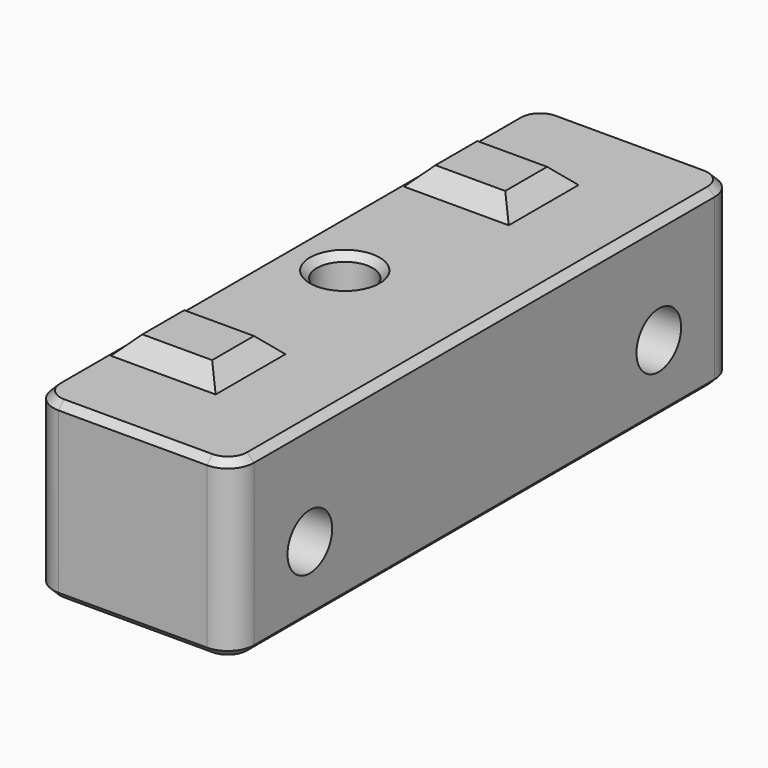
from build123d import *

# Parameters (mm, degrees)
PAD_DEPTH            = 10
SKETCH003_R          = 1.6
POCKET_DEPTH         = 0.001
POCKET_DEPTH_BACK    = 10.001
SKETCH006_W          = 6
SKETCH006_H          = 5
PAD001_DEPTH         = 1
PAD001_TAPER         = 45
SKETCH_R             = 1.6
POCKET004_DEPTH      = 11.501
POCKET004_DEPTH_BACK = 0.001
FILLET_R             = 1.5
CHAMFER_SIZE         = 0.4


with BuildPart() as part:
    # Sketch001 → Pad (new body)
    with BuildSketch(Plane.XY):
        Polygon((-3.5, 18), (-3.5, 0), (-3.5, -18), (8, -18), (8, 18), align=None)
    extrude(amount=PAD_DEPTH)

    # Sketch003 → Pocket (cut, two sides)
    with BuildSketch(Plane.XY) as pocket_sk:
        Circle(SKETCH003_R)
    extrude(amount=-POCKET_DEPTH, mode=Mode.SUBTRACT)
    extrude(pocket_sk.sketch, amount=POCKET_DEPTH_BACK, mode=Mode.SUBTRACT)

    # Sketch006 (on Face5 of Pocket) → Pad001 (join)
    with BuildSketch(Plane.XY.offset(10)):
        with Locations((0, 10.5)):
            Rectangle(SKETCH006_W, SKETCH006_H)
        with Locations((0, -10.5)):
            Rectangle(SKETCH006_W, SKETCH006_H)
    extrude(amount=PAD001_DEPTH, taper=PAD001_TAPER)

    # Sketch (on Face2 of Pad001) → Pocket004 (cut, two sides)
    with BuildSketch(Plane(origin=(-3.5, 0, 0), x_dir=(0, -1, 0), z_dir=(-1, 0, 0))) as pocket004_sk:
        with Locations((-12.5, 4)):
            Circle(SKETCH_R)
        with Locations((12.5, 4)):
            Circle(SKETCH_R)
    extrude(amount=-POCKET004_DEPTH, mode=Mode.SUBTRACT)
    extrude(pocket004_sk.sketch, amount=POCKET004_DEPTH_BACK, mode=Mode.SUBTRACT)

    # Fillet
    fillet_edges = [part.edges().sort_by_distance(p)[0] for p in [
        (-3.5, -18, 5),
        (8, -18, 5),
        (-3.5, 18, 5),
        (8, 18, 5),
    ]]
    fillet(fillet_edges, radius=FILLET_R)

    # Chamfer
    chamfer_edges = [part.edges().sort_by_distance(p)[0] for p in [
        (-3.5, 0, 0),
        (-3.06066, 17.56066, 0),
        (-3.06066, -17.56066, 0),
        (2.25, 18, 0),
        (2.25, -18, 0),
        (7.56066, 17.56066, 0),
        (7.56066, -17.56066, 0),
        (8, 0, 0),
        (-1.6, 0, 0),
        (2.25, 18, 10),
        (-1.6, 0, 10),
    ]]
    chamfer(chamfer_edges, length=CHAMFER_SIZE)


solid = part.part
